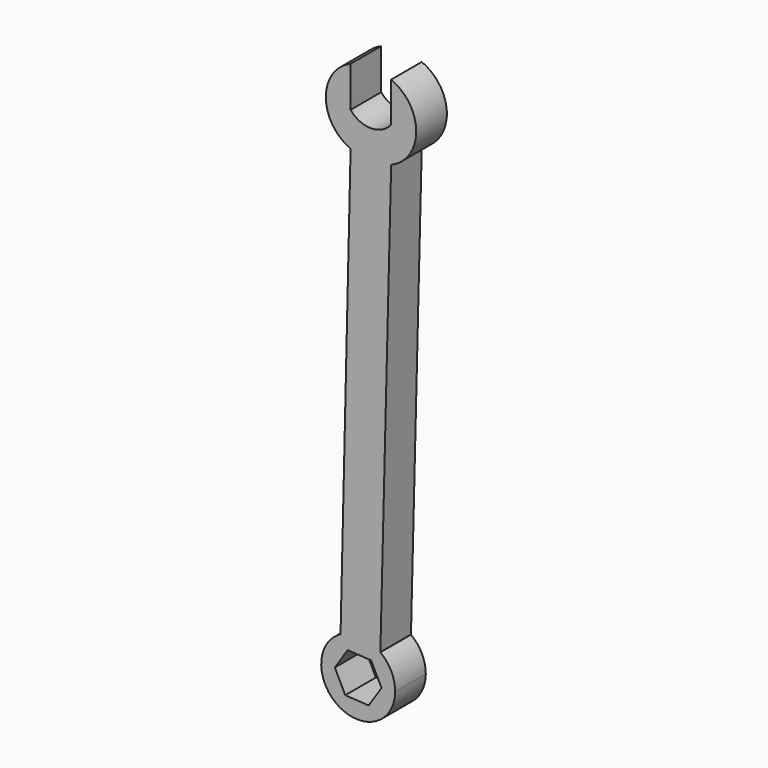
from build123d import *

# Parameters (mm, degrees)
F1_DEPTH = 6.35
F2_DEPTH = 7.62


with BuildPart() as f1:
    # F0 (on Front) → F1 (new body)
    with BuildSketch(Plane.XZ):
        with BuildLine():
            Line((-39.743337, -65.643214), (-39.743337, -65.434216))
            Line((-39.743337, -65.434216), (-37.598322, 20.518023))
            Line((-37.598322, 20.518023), (-45.673008, 20.719534))
            Line((-45.673008, 20.719534), (-47.674275, -65.06083))
            ThreePointArc((-47.674275, -65.06083), (-43.623463, -64.189814), (-39.743337, -65.643214))
        make_face()
    extrude(amount=F1_DEPTH)

    # F0 (on Front) → F2 (join)
    with BuildSketch(Plane.XZ):
        with BuildLine():
            Line((-39.743337, -65.643214), (-39.743337, -65.434216))
            Line((-39.743337, -65.434216), (-37.598322, 20.518023))
            Line((-37.598322, 20.518023), (-45.673008, 20.719534))
            Line((-45.673008, 20.719534), (-47.674275, -65.06083))
            ThreePointArc((-47.674275, -65.06083), (-43.623463, -64.189814), (-39.743337, -65.643214))
        make_face()
        with BuildLine():
            Line((-45.673008, 20.719534), (-37.598322, 20.518023))
            ThreePointArc((-37.598322, 20.518023), (-32.601753, 27.984673), (-37.598322, 35.451324))
            Line((-37.598322, 35.451324), (-37.598322, 27.525249))
            ThreePointArc((-37.598322, 27.525249), (-41.636713, 25.615004), (-45.675104, 27.525249))
            Line((-45.675104, 27.525249), (-45.675104, 35.602449))
            ThreePointArc((-45.675104, 35.602449), (-50.610258, 28.160296), (-45.673008, 20.719534))
        make_face()
        with BuildLine():
            ThreePointArc((-36.79691, -71.536034), (-37.574567, -68.241844), (-39.743337, -65.643214))
            ThreePointArc((-39.743337, -65.643214), (-43.623463, -64.189814), (-47.674275, -65.06083))
            ThreePointArc((-47.674275, -65.06083), (-47.930751, -77.865437), (-36.79691, -71.536034))
        make_face()
        Polygon((-46.248433, -67.364986), (-41.593438, -67.644394), (-39.507915, -71.815443), (-42.077387, -75.707083), (-46.732383, -75.427675), (-48.817906, -71.256626), align=None, mode=Mode.SUBTRACT)
    extrude(amount=F2_DEPTH)


solid = f1.part
